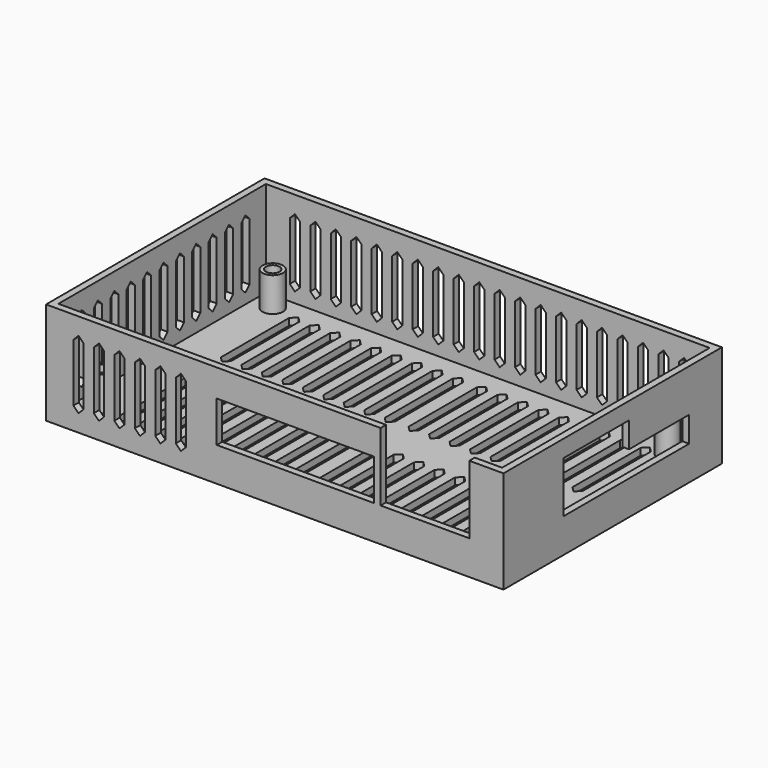
from build123d import *

# Parameters (mm, degrees)
F0_W      = 130
F0_H      = 76
F1_DEPTH  = 2
F2_W      = 134
F2_H      = 80
F2_W_2    = 130
F2_H_2    = 76
F3_DEPTH  = 30
F4_R      = 3
F4_R_2    = 2
F5_DEPTH  = 10
F6_W      = 26
F6_H      = 20
F6_W_2    = 46
F6_H_2    = 12
F8_DEPTH  = 2
F7_W      = 22
F7_H      = 7.5
F9_DEPTH  = 25
F10_W     = 3
F10_H     = 17
F11_DEPTH = 2
F12_W     = 3
F12_H     = 17
F13_DEPTH = 2
F14_W     = 3
F14_H     = 17
F15_DEPTH = 2
F16_W     = 3
F16_H     = 25
F17_DEPTH = 2


with BuildPart() as f1:
    # F0 (on Top) → F1 (new body)
    with BuildSketch(Plane.XY):
        Rectangle(F0_W, F0_H)
    extrude(amount=F1_DEPTH)

    # F2 (on Top) → F3 (join)
    with BuildSketch(Plane.XY):
        Rectangle(F2_W, F2_H)
        Rectangle(F2_W_2, F2_H_2, mode=Mode.SUBTRACT)
    extrude(amount=F3_DEPTH)

    # F4 (on face) → F5 (join)
    with BuildSketch(Plane.XY.offset(2)):
        with Locations((56.7, 33)):
            Circle(F4_R)
        with Locations((56.7, 33)):
            Circle(F4_R_2, mode=Mode.SUBTRACT)
        with Locations((56.7, -30)):
            Circle(F4_R)
        with Locations((56.7, -30)):
            Circle(F4_R_2, mode=Mode.SUBTRACT)
        with Locations((-59, -30)):
            Circle(F4_R)
        with Locations((-59, -30)):
            Circle(F4_R_2, mode=Mode.SUBTRACT)
        with Locations((-59, 33)):
            Circle(F4_R)
        with Locations((-59, 33)):
            Circle(F4_R_2, mode=Mode.SUBTRACT)
    extrude(amount=F5_DEPTH)

    # F6 (on face) → F8 (cut)
    with BuildSketch(Plane.XZ.offset(40)):
        with Locations((44, 20)):
            Rectangle(F6_W, F6_H)
        with Locations((6, 16)):
            Rectangle(F6_W_2, F6_H_2)
    extrude(amount=-F8_DEPTH, mode=Mode.SUBTRACT)

    # F7 (on face) → F9 (cut)
    with BuildSketch(Plane.YZ.offset(67)):
        Polygon((-18, 25), (-18, 10), (6, 10), (6, 17.5), (6, 25), align=None)
        with Locations((17, 13.75)):
            Rectangle(F7_W, F7_H)
    extrude(amount=-F9_DEPTH, mode=Mode.SUBTRACT)

    # F10 (on face) → F11 (cut)
    with BuildSketch(Plane(origin=(0, 40, 0), x_dir=(-1, 0, 0), z_dir=(0, 1, 0))):
        Polygon((-57.5, 25), (-59, 23.5), (-56, 23.5), align=None)
        with Locations((-57.5, 15)):
            Rectangle(F10_W, F10_H)
        Polygon((-56, 6.5), (-59, 6.5), (-57.5, 5), align=None)
        with Locations((-51.5, 15)):
            Rectangle(F10_W, F10_H)
        Polygon((-50, 6.5), (-53, 6.5), (-51.5, 5), align=None)
        Polygon((-51.5, 25), (-53, 23.5), (-50, 23.5), align=None)
        with Locations((-45.5, 15)):
            Rectangle(F10_W, F10_H)
        Polygon((-44, 6.5), (-47, 6.5), (-45.5, 5), align=None)
        Polygon((-45.5, 25), (-47, 23.5), (-44, 23.5), align=None)
        with Locations((-39.5, 15)):
            Rectangle(F10_W, F10_H)
        Polygon((-38, 6.5), (-41, 6.5), (-39.5, 5), align=None)
        Polygon((-39.5, 25), (-41, 23.5), (-38, 23.5), align=None)
        with Locations((-33.5, 15)):
            Rectangle(F10_W, F10_H)
        Polygon((-32, 6.5), (-35, 6.5), (-33.5, 5), align=None)
        Polygon((-33.5, 25), (-35, 23.5), (-32, 23.5), align=None)
        with Locations((-27.5, 15)):
            Rectangle(F10_W, F10_H)
        Polygon((-26, 6.5), (-29, 6.5), (-27.5, 5), align=None)
        Polygon((-27.5, 25), (-29, 23.5), (-26, 23.5), align=None)
        with Locations((-21.5, 15)):
            Rectangle(F10_W, F10_H)
        Polygon((-20, 6.5), (-23, 6.5), (-21.5, 5), align=None)
        Polygon((-21.5, 25), (-23, 23.5), (-20, 23.5), align=None)
        with Locations((-15.5, 15)):
            Rectangle(F10_W, F10_H)
        Polygon((-14, 6.5), (-17, 6.5), (-15.5, 5), align=None)
        Polygon((-15.5, 25), (-17, 23.5), (-14, 23.5), align=None)
        with Locations((-9.5, 15)):
            Rectangle(F10_W, F10_H)
        Polygon((-8, 6.5), (-11, 6.5), (-9.5, 5), align=None)
        Polygon((-9.5, 25), (-11, 23.5), (-8, 23.5), align=None)
        with Locations((-3.5, 15)):
            Rectangle(F10_W, F10_H)
        Polygon((-2, 6.5), (-5, 6.5), (-3.5, 5), align=None)
        Polygon((-3.5, 25), (-5, 23.5), (-2, 23.5), align=None)
        with Locations((2.5, 15)):
            Rectangle(F10_W, F10_H)
        Polygon((4, 6.5), (1, 6.5), (2.5, 5), align=None)
        Polygon((2.5, 25), (1, 23.5), (4, 23.5), align=None)
        with Locations((8.5, 15)):
            Rectangle(F10_W, F10_H)
        Polygon((10, 6.5), (7, 6.5), (8.5, 5), align=None)
        Polygon((8.5, 25), (7, 23.5), (10, 23.5), align=None)
        with Locations((14.5, 15)):
            Rectangle(F10_W, F10_H)
        Polygon((16, 6.5), (13, 6.5), (14.5, 5), align=None)
        Polygon((14.5, 25), (13, 23.5), (16, 23.5), align=None)
        with Locations((20.5, 15)):
            Rectangle(F10_W, F10_H)
        Polygon((22, 6.5), (19, 6.5), (20.5, 5), align=None)
        Polygon((20.5, 25), (19, 23.5), (22, 23.5), align=None)
        with Locations((26.5, 15)):
            Rectangle(F10_W, F10_H)
        Polygon((28, 6.5), (25, 6.5), (26.5, 5), align=None)
        Polygon((26.5, 25), (25, 23.5), (28, 23.5), align=None)
        with Locations((32.5, 15)):
            Rectangle(F10_W, F10_H)
        Polygon((34, 6.5), (31, 6.5), (32.5, 5), align=None)
        Polygon((32.5, 25), (31, 23.5), (34, 23.5), align=None)
        with Locations((38.5, 15)):
            Rectangle(F10_W, F10_H)
        Polygon((40, 6.5), (37, 6.5), (38.5, 5), align=None)
        Polygon((38.5, 25), (37, 23.5), (40, 23.5), align=None)
        with Locations((44.5, 15)):
            Rectangle(F10_W, F10_H)
        Polygon((46, 6.5), (43, 6.5), (44.5, 5), align=None)
        Polygon((44.5, 25), (43, 23.5), (46, 23.5), align=None)
        with Locations((50.5, 15)):
            Rectangle(F10_W, F10_H)
        Polygon((52, 6.5), (49, 6.5), (50.5, 5), align=None)
        Polygon((50.5, 25), (49, 23.5), (52, 23.5), align=None)
        with Locations((56.5, 15)):
            Rectangle(F10_W, F10_H)
        Polygon((58, 6.5), (55, 6.5), (56.5, 5), align=None)
        Polygon((56.5, 25), (55, 23.5), (58, 23.5), align=None)
    extrude(amount=-F11_DEPTH, mode=Mode.SUBTRACT)

    # F12 (on face) → F13 (cut)
    with BuildSketch(Plane(origin=(-67, 0, 0), x_dir=(0, -1, 0), z_dir=(-1, 0, 0))):
        Polygon((-30.5, 25), (-32, 23.5), (-29, 23.5), align=None)
        with Locations((-30.5, 15)):
            Rectangle(F12_W, F12_H)
        Polygon((-29, 6.5), (-32, 6.5), (-30.5, 5), align=None)
        Polygon((-24.5, 25), (-26, 23.5), (-23, 23.5), align=None)
        with Locations((-24.5, 15)):
            Rectangle(F12_W, F12_H)
        Polygon((-23, 6.5), (-26, 6.5), (-24.5, 5), align=None)
        Polygon((-18.5, 25), (-20, 23.5), (-17, 23.5), align=None)
        with Locations((-18.5, 15)):
            Rectangle(F12_W, F12_H)
        Polygon((-17, 6.5), (-20, 6.5), (-18.5, 5), align=None)
        Polygon((-12.5, 25), (-14, 23.5), (-11, 23.5), align=None)
        with Locations((-12.5, 15)):
            Rectangle(F12_W, F12_H)
        Polygon((-11, 6.5), (-14, 6.5), (-12.5, 5), align=None)
        Polygon((-6.5, 25), (-8, 23.5), (-5, 23.5), align=None)
        with Locations((-6.5, 15)):
            Rectangle(F12_W, F12_H)
        Polygon((-5, 6.5), (-8, 6.5), (-6.5, 5), align=None)
        Polygon((-0.5, 25), (-2, 23.5), (1, 23.5), align=None)
        with Locations((-0.5, 15)):
            Rectangle(F12_W, F12_H)
        Polygon((1, 6.5), (-2, 6.5), (-0.5, 5), align=None)
        Polygon((5.5, 25), (4, 23.5), (7, 23.5), align=None)
        with Locations((5.5, 15)):
            Rectangle(F12_W, F12_H)
        Polygon((7, 6.5), (4, 6.5), (5.5, 5), align=None)
        Polygon((11.5, 25), (10, 23.5), (13, 23.5), align=None)
        with Locations((11.5, 15)):
            Rectangle(F12_W, F12_H)
        Polygon((13, 6.5), (10, 6.5), (11.5, 5), align=None)
        Polygon((17.5, 25), (16, 23.5), (19, 23.5), align=None)
        with Locations((17.5, 15)):
            Rectangle(F12_W, F12_H)
        Polygon((19, 6.5), (16, 6.5), (17.5, 5), align=None)
        Polygon((23.5, 25), (22, 23.5), (25, 23.5), align=None)
        with Locations((23.5, 15)):
            Rectangle(F12_W, F12_H)
        Polygon((25, 6.5), (22, 6.5), (23.5, 5), align=None)
        Polygon((29.5, 25), (28, 23.5), (31, 23.5), align=None)
        with Locations((29.5, 15)):
            Rectangle(F12_W, F12_H)
        Polygon((31, 6.5), (28, 6.5), (29.5, 5), align=None)
    extrude(amount=-F13_DEPTH, mode=Mode.SUBTRACT)

    # F14 (on face) → F15 (cut)
    with BuildSketch(Plane.XZ.offset(40)):
        Polygon((-57.5, 25), (-59, 23.5), (-56, 23.5), align=None)
        with Locations((-57.5, 15)):
            Rectangle(F14_W, F14_H)
        Polygon((-56, 6.5), (-59, 6.5), (-57.5, 5), align=None)
        with Locations((-51.5, 15)):
            Rectangle(F14_W, F14_H)
        Polygon((-51.5, 25), (-53, 23.5), (-50, 23.5), align=None)
        Polygon((-50, 6.5), (-53, 6.5), (-51.5, 5), align=None)
        with Locations((-45.5, 15)):
            Rectangle(F14_W, F14_H)
        Polygon((-45.5, 25), (-47, 23.5), (-44, 23.5), align=None)
        Polygon((-44, 6.5), (-47, 6.5), (-45.5, 5), align=None)
        with Locations((-39.5, 15)):
            Rectangle(F14_W, F14_H)
        Polygon((-39.5, 25), (-41, 23.5), (-38, 23.5), align=None)
        Polygon((-38, 6.5), (-41, 6.5), (-39.5, 5), align=None)
        with Locations((-33.5, 15)):
            Rectangle(F14_W, F14_H)
        Polygon((-33.5, 25), (-35, 23.5), (-32, 23.5), align=None)
        Polygon((-32, 6.5), (-35, 6.5), (-33.5, 5), align=None)
        with Locations((-27.5, 15)):
            Rectangle(F14_W, F14_H)
        Polygon((-27.5, 25), (-29, 23.5), (-26, 23.5), align=None)
        Polygon((-26, 6.5), (-29, 6.5), (-27.5, 5), align=None)
    extrude(amount=-F15_DEPTH, mode=Mode.SUBTRACT)

    # F16 (on face) → F17 (cut)
    with BuildSketch(Plane.XY.offset(2)):
        Polygon((-51.5, 33), (-53, 31.5), (-50, 31.5), align=None)
        with Locations((-51.5, 19)):
            Rectangle(F16_W, F16_H)
        Polygon((-50, 6.5), (-53, 6.5), (-51.5, 5), align=None)
        with Locations((-45.5, 19)):
            Rectangle(F16_W, F16_H)
        Polygon((-45.5, 33), (-47, 31.5), (-44, 31.5), align=None)
        Polygon((-44, 6.5), (-47, 6.5), (-45.5, 5), align=None)
        with Locations((-39.5, 19)):
            Rectangle(F16_W, F16_H)
        Polygon((-39.5, 33), (-41, 31.5), (-38, 31.5), align=None)
        Polygon((-38, 6.5), (-41, 6.5), (-39.5, 5), align=None)
        with Locations((-33.5, 19)):
            Rectangle(F16_W, F16_H)
        Polygon((-33.5, 33), (-35, 31.5), (-32, 31.5), align=None)
        Polygon((-32, 6.5), (-35, 6.5), (-33.5, 5), align=None)
        with Locations((-27.5, 19)):
            Rectangle(F16_W, F16_H)
        Polygon((-27.5, 33), (-29, 31.5), (-26, 31.5), align=None)
        Polygon((-26, 6.5), (-29, 6.5), (-27.5, 5), align=None)
        with Locations((-21.5, 19)):
            Rectangle(F16_W, F16_H)
        Polygon((-21.5, 33), (-23, 31.5), (-20, 31.5), align=None)
        Polygon((-20, 6.5), (-23, 6.5), (-21.5, 5), align=None)
        with Locations((-15.5, 19)):
            Rectangle(F16_W, F16_H)
        Polygon((-15.5, 33), (-17, 31.5), (-14, 31.5), align=None)
        Polygon((-14, 6.5), (-17, 6.5), (-15.5, 5), align=None)
        with Locations((-9.5, 19)):
            Rectangle(F16_W, F16_H)
        Polygon((-9.5, 33), (-11, 31.5), (-8, 31.5), align=None)
        Polygon((-8, 6.5), (-11, 6.5), (-9.5, 5), align=None)
        with Locations((-3.5, 19)):
            Rectangle(F16_W, F16_H)
        Polygon((-3.5, 33), (-5, 31.5), (-2, 31.5), align=None)
        Polygon((-2, 6.5), (-5, 6.5), (-3.5, 5), align=None)
        Polygon((9.5, 5), (11, 6.5), (8, 6.5), align=None)
        with Locations((9.5, 19)):
            Rectangle(F16_W, F16_H)
        Polygon((8, 31.5), (11, 31.5), (9.5, 33), align=None)
        Polygon((51.5, 5), (53, 6.5), (50, 6.5), align=None)
        with Locations((51.5, 19)):
            Rectangle(F16_W, F16_H)
        Polygon((50, 31.5), (53, 31.5), (51.5, 33), align=None)
        Polygon((35, 31.5), (33.5, 33), (32, 31.5), align=None)
        with Locations((33.5, 19)):
            Rectangle(F16_W, F16_H)
        Polygon((35, 6.5), (32, 6.5), (33.5, 5), align=None)
        Polygon((26, 6.5), (27.5, 5), (29, 6.5), align=None)
        with Locations((27.5, 19)):
            Rectangle(F16_W, F16_H)
        Polygon((27.5, 33), (26, 31.5), (29, 31.5), align=None)
        Polygon((14, 6.5), (15.5, 5), (17, 6.5), align=None)
        with Locations((15.5, 19)):
            Rectangle(F16_W, F16_H)
        Polygon((15.5, 33), (14, 31.5), (17, 31.5), align=None)
        Polygon((23, 31.5), (21.5, 33), (20, 31.5), align=None)
        with Locations((21.5, 19)):
            Rectangle(F16_W, F16_H)
        Polygon((23, 6.5), (20, 6.5), (21.5, 5), align=None)
        Polygon((2, 6.5), (3.5, 5), (5, 6.5), align=None)
        with Locations((3.5, 19)):
            Rectangle(F16_W, F16_H)
        Polygon((3.5, 33), (2, 31.5), (5, 31.5), align=None)
        with Locations((39.5, 19)):
            Rectangle(F16_W, F16_H)
        Polygon((38, 31.5), (41, 31.5), (39.5, 33), align=None)
        Polygon((39.5, 5), (41, 6.5), (38, 6.5), align=None)
        Polygon((47, 31.5), (45.5, 33), (44, 31.5), align=None)
        with Locations((45.5, 19)):
            Rectangle(F16_W, F16_H)
        Polygon((47, 6.5), (44, 6.5), (45.5, 5), align=None)
        Polygon((-39.5, -5), (-41, -6.5), (-38, -6.5), align=None)
        with Locations((-39.5, -19)):
            Rectangle(F16_W, F16_H)
        Polygon((-38, -31.5), (-41, -31.5), (-39.5, -33), align=None)
        Polygon((-47, -31.5), (-45.5, -33), (-44, -31.5), align=None)
        with Locations((-45.5, -19)):
            Rectangle(F16_W, F16_H)
        Polygon((-47, -6.5), (-44, -6.5), (-45.5, -5), align=None)
        Polygon((-21.5, -5), (-23, -6.5), (-20, -6.5), align=None)
        with Locations((-21.5, -19)):
            Rectangle(F16_W, F16_H)
        Polygon((-20, -31.5), (-23, -31.5), (-21.5, -33), align=None)
        with Locations((-3.5, -19)):
            Rectangle(F16_W, F16_H)
        Polygon((-2, -31.5), (-5, -31.5), (-3.5, -33), align=None)
        Polygon((-3.5, -5), (-5, -6.5), (-2, -6.5), align=None)
        Polygon((20, -31.5), (21.5, -33), (23, -31.5), align=None)
        with Locations((21.5, -19)):
            Rectangle(F16_W, F16_H)
        Polygon((21.5, -5), (20, -6.5), (23, -6.5), align=None)
        with Locations((-9.5, -19)):
            Rectangle(F16_W, F16_H)
        Polygon((-8, -31.5), (-11, -31.5), (-9.5, -33), align=None)
        Polygon((-9.5, -5), (-11, -6.5), (-8, -6.5), align=None)
        Polygon((-33.5, -5), (-35, -6.5), (-32, -6.5), align=None)
        with Locations((-33.5, -19)):
            Rectangle(F16_W, F16_H)
        Polygon((-32, -31.5), (-35, -31.5), (-33.5, -33), align=None)
        Polygon((41, -6.5), (39.5, -5), (38, -6.5), align=None)
        with Locations((39.5, -19)):
            Rectangle(F16_W, F16_H)
        Polygon((41, -31.5), (38, -31.5), (39.5, -33), align=None)
        Polygon((15.5, -33), (17, -31.5), (14, -31.5), align=None)
        with Locations((15.5, -19)):
            Rectangle(F16_W, F16_H)
        Polygon((14, -6.5), (17, -6.5), (15.5, -5), align=None)
        Polygon((27.5, -33), (29, -31.5), (26, -31.5), align=None)
        with Locations((27.5, -19)):
            Rectangle(F16_W, F16_H)
        Polygon((26, -6.5), (29, -6.5), (27.5, -5), align=None)
        with Locations((-27.5, -19)):
            Rectangle(F16_W, F16_H)
        Polygon((-26, -31.5), (-29, -31.5), (-27.5, -33), align=None)
        Polygon((-27.5, -5), (-29, -6.5), (-26, -6.5), align=None)
        Polygon((8, -31.5), (9.5, -33), (11, -31.5), align=None)
        with Locations((9.5, -19)):
            Rectangle(F16_W, F16_H)
        Polygon((9.5, -5), (8, -6.5), (11, -6.5), align=None)
        Polygon((32, -6.5), (35, -6.5), (33.5, -5), align=None)
        with Locations((33.5, -19)):
            Rectangle(F16_W, F16_H)
        Polygon((33.5, -33), (35, -31.5), (32, -31.5), align=None)
        with Locations((-15.5, -19)):
            Rectangle(F16_W, F16_H)
        Polygon((-14, -31.5), (-17, -31.5), (-15.5, -33), align=None)
        Polygon((-15.5, -5), (-17, -6.5), (-14, -6.5), align=None)
        Polygon((45.5, -33), (47, -31.5), (44, -31.5), align=None)
        with Locations((45.5, -19)):
            Rectangle(F16_W, F16_H)
        Polygon((44, -6.5), (47, -6.5), (45.5, -5), align=None)
        Polygon((53, -6.5), (51.5, -5), (50, -6.5), align=None)
        with Locations((51.5, -19)):
            Rectangle(F16_W, F16_H)
        Polygon((53, -31.5), (50, -31.5), (51.5, -33), align=None)
        Polygon((-50, -31.5), (-53, -31.5), (-51.5, -33), align=None)
        with Locations((-51.5, -19)):
            Rectangle(F16_W, F16_H)
        Polygon((-51.5, -5), (-53, -6.5), (-50, -6.5), align=None)
        with Locations((3.5, -19)):
            Rectangle(F16_W, F16_H)
        Polygon((2, -6.5), (5, -6.5), (3.5, -5), align=None)
        Polygon((3.5, -33), (5, -31.5), (2, -31.5), align=None)
    extrude(amount=-F17_DEPTH, mode=Mode.SUBTRACT)


solid = f1.part
